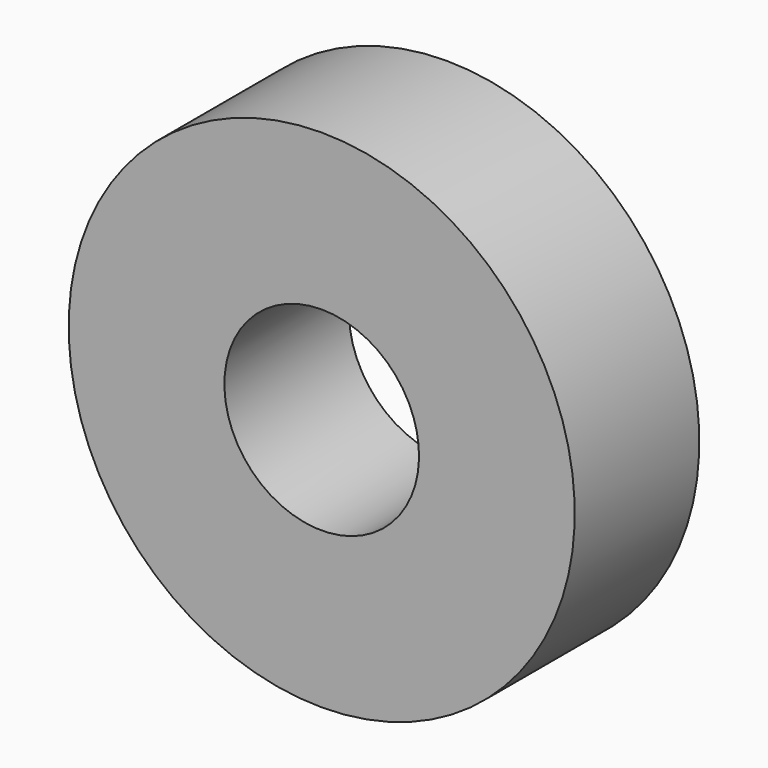
from build123d import *

# Parameters (mm, degrees)
SKETCH_W = 8
SKETCH_H = 8


with BuildPart() as part:
    # Sketch → Revolution (revolve)
    with BuildSketch(Plane.YZ):
        with Locations((0, 9)):
            Rectangle(SKETCH_W, SKETCH_H)
    revolve(axis=Axis((0, 0, 0), (0, 1, 0)))


solid = part.part
